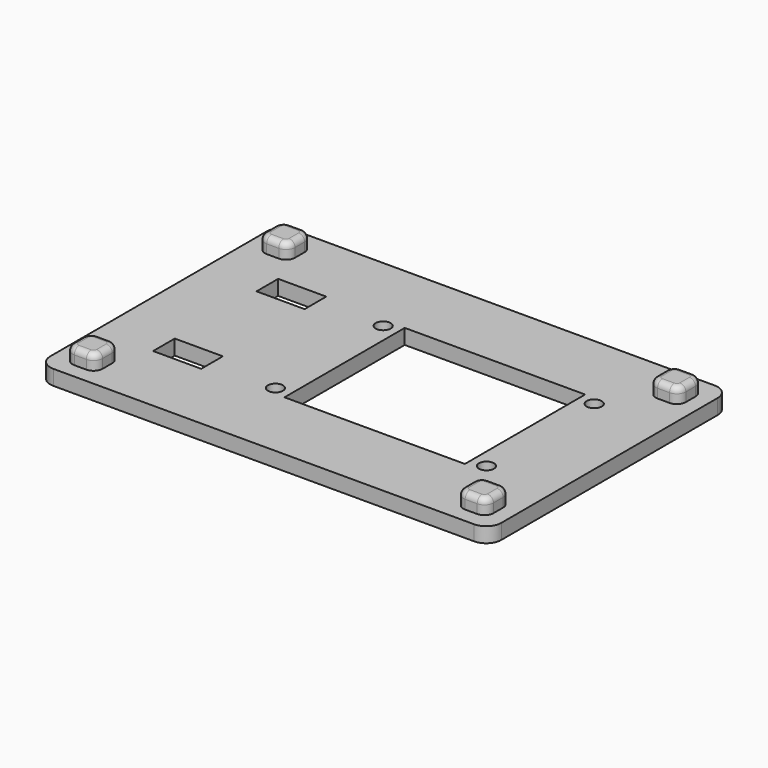
from build123d import *

# Parameters (mm, degrees)
SKETCH_W        = 150
SKETCH_H        = 100
PAD_DEPTH       = 5
FILLET_R        = 5
SKETCH001_W     = 10
SKETCH001_H     = 10
PAD001_DEPTH    = 5
FILLET001_R     = 3
FILLET002_R     = 2
SKETCH002_R     = 2.5
POCKET_DEPTH    = 5
SKETCH003_W     = 60
SKETCH003_H     = 50
POCKET001_DEPTH = 5.001
SKETCH004_W     = 14
SKETCH004_H     = 7
POCKET002_DEPTH = 5.001
SKETCH005_W     = 16
SKETCH005_H     = 7
POCKET003_DEPTH = 2
SKETCH006_W     = 16
SKETCH006_H     = 9
POCKET004_DEPTH = 10.001


with BuildPart() as part:
    # Sketch → Pad (new body)
    with BuildSketch(Plane.XY):
        with Locations((75, 50)):
            Rectangle(SKETCH_W, SKETCH_H)
    extrude(amount=PAD_DEPTH)

    # Fillet
    fillet_edges = [part.edges().sort_by_distance(p)[0] for p in [
        (0, 0, 2.5),
        (150, 0, 2.5),
        (150, 100, 2.5),
        (0, 100, 2.5),
    ]]
    fillet(fillet_edges, radius=FILLET_R)

    # Sketch001 → Pad001 (new body)
    with BuildSketch(Plane.XY.offset(5)):
        with Locations((10, 10)):
            Rectangle(SKETCH001_W, SKETCH001_H)
        with Locations((140, 90)):
            Rectangle(SKETCH001_W, SKETCH001_H)
        with Locations((10, 90)):
            Rectangle(SKETCH001_W, SKETCH001_H)
        with Locations((140, 10)):
            Rectangle(SKETCH001_W, SKETCH001_H)
    extrude(amount=PAD001_DEPTH)

    # Fillet001
    fillet001_edges = [part.edges().sort_by_distance(p)[0] for p in [
        (5, 5, 7.5),
        (15, 5, 7.5),
        (5, 15, 7.5),
        (15, 15, 7.5),
        (5, 95, 7.5),
        (15, 95, 7.5),
        (5, 85, 7.5),
        (15, 85, 7.5),
        (135, 5, 7.5),
        (145, 5, 7.5),
        (145, 15, 7.5),
        (135, 85, 7.5),
        (145, 85, 7.5),
        (145, 95, 7.5),
        (135, 95, 7.5),
        (135, 15, 7.5),
    ]]
    fillet(fillet001_edges, radius=FILLET001_R)

    # Fillet002
    fillet002_edges = [part.edges().sort_by_distance(p)[0] for p in [
        (10, 15, 10),
        (140, 15, 10),
        (140, 95, 10),
        (10, 95, 10),
    ]]
    fillet(fillet002_edges, radius=FILLET002_R)

    # Sketch002 → Pocket (cut)
    with BuildSketch(Plane.XY.offset(5)):
        with Locations((56.8, 72.4)):
            Circle(SKETCH002_R)
        with Locations((127, 72.4)):
            Circle(SKETCH002_R)
        with Locations((56.8, 27.6)):
            Circle(SKETCH002_R)
        with Locations((127, 27.6)):
            Circle(SKETCH002_R)
    extrude(amount=-POCKET_DEPTH, mode=Mode.SUBTRACT)

    # Sketch003 → Pocket001 (cut, through all)
    with BuildSketch(Plane.XY.offset(5)):
        with Locations((91.9, 50)):
            Rectangle(SKETCH003_W, SKETCH003_H)
    extrude(amount=-POCKET001_DEPTH, mode=Mode.SUBTRACT)

    # Sketch004 → Pocket002 (cut, through all)
    with BuildSketch(Plane.XY.offset(5)):
        with Locations((27, 71.5)):
            Rectangle(SKETCH004_W, SKETCH004_H)
        with Locations((27, 28.5)):
            Rectangle(SKETCH004_W, SKETCH004_H)
    extrude(amount=-POCKET002_DEPTH, mode=Mode.SUBTRACT)

    # Sketch005 → Pocket003 (cut)
    with BuildSketch(Plane.XY.offset(5)):
        with Locations((27, 71.5)):
            Rectangle(SKETCH005_W, SKETCH005_H)
        with Locations((27, 28.5)):
            Rectangle(SKETCH005_W, SKETCH005_H)
    extrude(amount=-POCKET003_DEPTH, mode=Mode.SUBTRACT)

    # Sketch006 → Pocket004 (cut, through all)
    with BuildSketch(Plane(origin=(0, 0, 0), x_dir=(1, 0, 0), z_dir=(0, 0, -1))):
        with Locations((27, -28.5)):
            Rectangle(SKETCH006_W, SKETCH006_H)
        with Locations((27, -71.5)):
            Rectangle(SKETCH006_W, SKETCH006_H)
    extrude(amount=-POCKET004_DEPTH, mode=Mode.SUBTRACT)


solid = part.part
